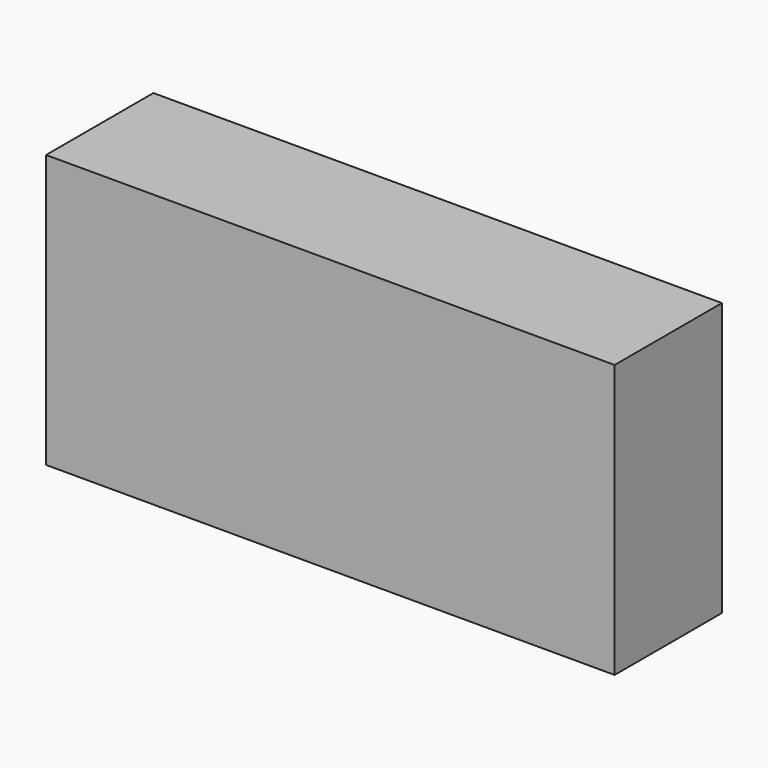
from build123d import *

# Parameters (mm, degrees)
F1_DEPTH = 5.842


with BuildPart() as f1:
    # F0 (on Front) → F1 (new body)
    with BuildSketch(Plane.XZ):
        with BuildLine():
            Line((21.102135, 0), (0, 0))
            Line((0, 0), (0, -11.8872))
            Line((0, -11.8872), (21.102135, -11.8872))
            ThreePointArc((21.102135, -11.8872), (21.59, -5.9436), (21.102135, 0))
        make_face()
        with BuildLine():
            Line((24.765, 0), (21.102135, 0))
            ThreePointArc((21.102135, 0), (21.59, -5.9436), (21.102135, -11.8872))
            Line((21.102135, -11.8872), (24.765, -11.8872))
            Line((24.765, -11.8872), (24.765, 0))
        make_face()
    extrude(amount=F1_DEPTH)


solid = f1.part
